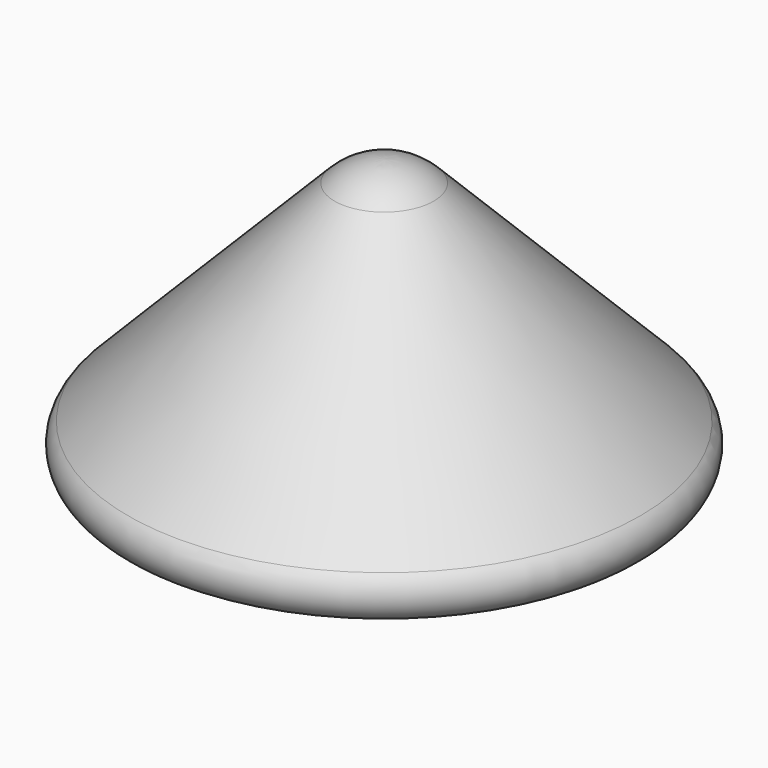
from build123d import *

# Parameters (mm, degrees)
F2_R = 0.5


with BuildPart() as f1:
    # F0 (on Front) → F1 (revolve)
    with BuildSketch(Plane.XZ):
        with BuildLine():
            Line((-7.9, 10), (0, 10))
            Line((0, 10), (0, 20))
            ThreePointArc((0, 20), (-1.932093, 19.611618), (-3.564029, 18.506807))
            Line((-3.564029, 18.506807), (-18.425612, 3.402723))
            ThreePointArc((-18.425612, 3.402723), (-18.844647, 1.227163), (-17, 0))
            Line((-17, 0), (-7.9, 0))
            Line((-7.9, 0), (-7.9, 10))
        make_face()
    revolve(axis=Axis((0, 0, 15), (0, 0, 1)))

    # F2
    f2_edges = [f1.edges().sort_by_distance(p)[0] for p in [
        (7.9, 0, 0),
    ]]
    fillet(f2_edges, radius=F2_R)


solid = f1.part
